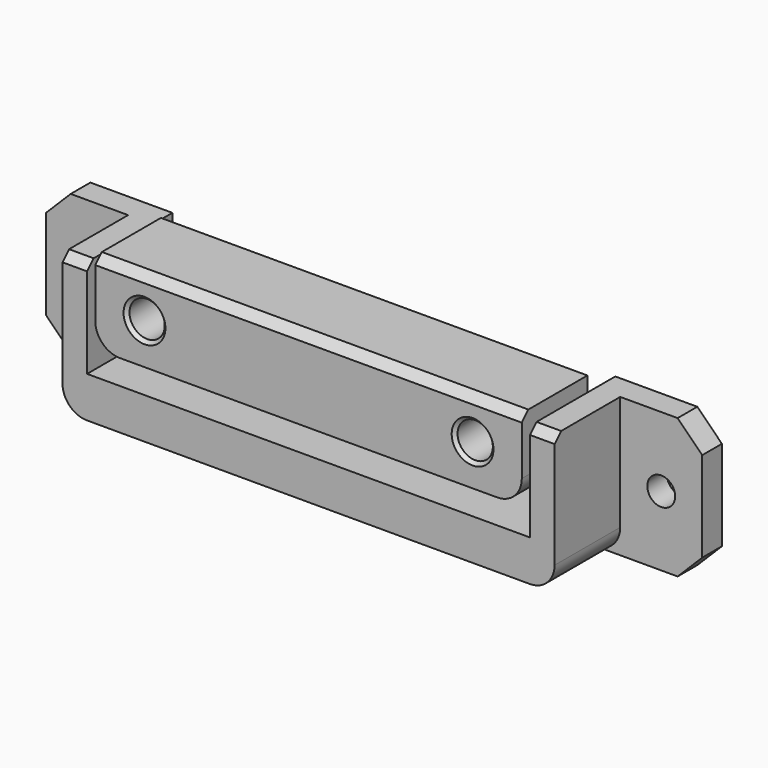
from build123d import *

# Parameters (mm, degrees)
PAD062_DEPTH    = 30
SKETCH125_W     = 10
SKETCH125_H     = 13
POCKET062_DEPTH = 4
SKETCH126_W     = 60
SKETCH126_H     = 5
PAD063_DEPTH    = 3
SKETCH127_W     = 13
SKETCH127_H     = 17
PAD064_DEPTH    = 3
SKETCH128_W     = 3
SKETCH128_H     = 12
PAD065_DEPTH    = 10
SKETCH129_R     = 1.7
POCKET063_DEPTH = 5
CHAMFER046_SIZE = 3
FILLET045_R     = 3
FILLET046_R     = 3
CHAMFER047_SIZE = 1
SKETCH130_R     = 2.15
POCKET064_DEPTH = 10.001
CHAMFER048_SIZE = 0.4


with BuildPart() as part:
    # Sketch124 → Pad062 (new body, symmetric)
    with BuildSketch(Plane.YZ):
        Polygon((-10, 0), (-10, 10), (0, 10), (0, 0), (0, -3), (0, -8), (-10, -8), (-10, -3), (-1, -3), (-1, 0), align=None)
    extrude(amount=PAD062_DEPTH, both=True)

    # Sketch125 (on Face8 of Pad062) → Pocket062 (cut)
    with BuildSketch(Plane(origin=(-30, 0, 0), x_dir=(0, -1, 0), z_dir=(-1, 0, 0))):
        with Locations((5, 3.5)):
            Rectangle(SKETCH125_W, SKETCH125_H)
    pocket062 = extrude(amount=-POCKET062_DEPTH, mode=Mode.SUBTRACT)

    # Mirrored009: Pocket062 across YZ
    add(pocket062.mirror(Plane.YZ), mode=Mode.SUBTRACT)

    # Sketch126 (on Face6 of Mirrored009) → Pad063 (join)
    with BuildSketch(Plane(origin=(0, 0, 0), x_dir=(-1, 0, 0), z_dir=(0, 1, 0))):
        with Locations((0, -5.5)):
            Rectangle(SKETCH126_W, SKETCH126_H)
    extrude(amount=PAD063_DEPTH)

    # Sketch127 → Pad064 (join)
    with BuildSketch(Plane.XZ):
        with Locations((33.5, 0.5)):
            Rectangle(SKETCH127_W, SKETCH127_H)
    pad064 = extrude(amount=-PAD064_DEPTH)

    # Sketch128 (on Face6 of Pad064) → Pad065 (join)
    with BuildSketch(Plane.XZ):
        with Locations((28.5, 3)):
            Rectangle(SKETCH128_W, SKETCH128_H)
    pad065 = extrude(amount=PAD065_DEPTH)

    # Mirrored010: Pad064, Pad065 across Sketch127 V_Axis
    add(pad064.mirror(Plane(origin=(0, 0, 0), x_dir=(0, -1, 0), z_dir=(1, 0, 0))))
    add(pad065.mirror(Plane(origin=(0, 0, 0), x_dir=(0, -1, 0), z_dir=(1, 0, 0))))

    # Sketch129 → Pocket063 (cut)
    with BuildSketch(Plane.XZ):
        with Locations((-35, 0.5)):
            Circle(SKETCH129_R)
        with Locations((35, 0.5)):
            Circle(SKETCH129_R)
    extrude(amount=-POCKET063_DEPTH, mode=Mode.SUBTRACT)

    # Chamfer046
    chamfer046_edges = [part.edges().sort_by_distance(p)[0] for p in [
        (-40, 1.5, 9),
        (-40, 1.5, -8),
        (40, 1.5, -8),
        (40, 1.5, 9),
    ]]
    chamfer(chamfer046_edges, length=CHAMFER046_SIZE)

    # Fillet045
    fillet045_edges = [part.edges().sort_by_distance(p)[0] for p in [
        (-30, -5, -8),
        (30, -5, -8),
    ]]
    fillet(fillet045_edges, radius=FILLET045_R)

    # Fillet046
    fillet046_edges = [part.edges().sort_by_distance(p)[0] for p in [
        (26, -5.5, 0),
        (-26, -5.5, 0),
    ]]
    fillet(fillet046_edges, radius=FILLET046_R)

    # Chamfer047
    chamfer047_edges = [part.edges().sort_by_distance(p)[0] for p in [
        (-28.5, -10, 9),
        (28.5, -10, 9),
        (0, -10, 10),
    ]]
    chamfer(chamfer047_edges, length=CHAMFER047_SIZE)

    # Sketch130 (on Face7 of Chamfer047) → Pocket064 (cut, through all)
    with BuildSketch(Plane(origin=(0, 0, 0), x_dir=(-1, 0, 0), z_dir=(0, 1, 0))):
        with Locations((-20, 5)):
            Circle(SKETCH130_R)
        with Locations((20, 5)):
            Circle(SKETCH130_R)
    extrude(amount=-POCKET064_DEPTH, mode=Mode.SUBTRACT)

    # Chamfer048
    chamfer048_edges = [part.edges().sort_by_distance(p)[0] for p in [
        (-17.85, -10, 5),
        (-17.85, 0, 5),
        (22.15, -10, 5),
        (22.15, 0, 5),
    ]]
    chamfer(chamfer048_edges, length=CHAMFER048_SIZE)


solid = part.part
